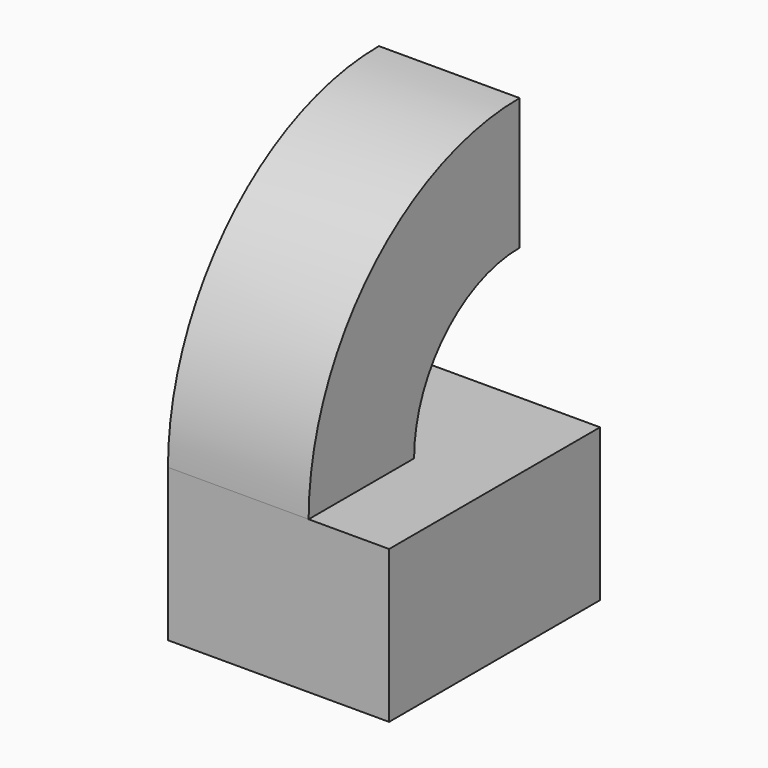
from build123d import *

# Parameters (mm, degrees)
F0_W     = 42.6117368042
F0_H     = 29.3311309069
F1_DEPTH = 25.4
F2_W     = 27.1033318713
F2_H     = 25.4
F3_ANGLE = 90


with BuildPart() as f1:
    # F0 (on Front) → F1 (new body, symmetric)
    with BuildSketch(Plane.XZ):
        with Locations((-21.3058684021, 14.6655654535)):
            Rectangle(F0_W, F0_H)
    extrude(amount=F1_DEPTH, both=True)

    # F2 (on face) → F3 (revolve)
    with BuildSketch(Plane.XY.offset(29.3311309069)):
        with Locations((-29.0600708686, -12.7)):
            Rectangle(F2_W, F2_H)
    revolve(axis=Axis((-21.3058684021, 25.4, 29.3311309069), (-1, 0, 0)), revolution_arc=F3_ANGLE)


solid = f1.part
